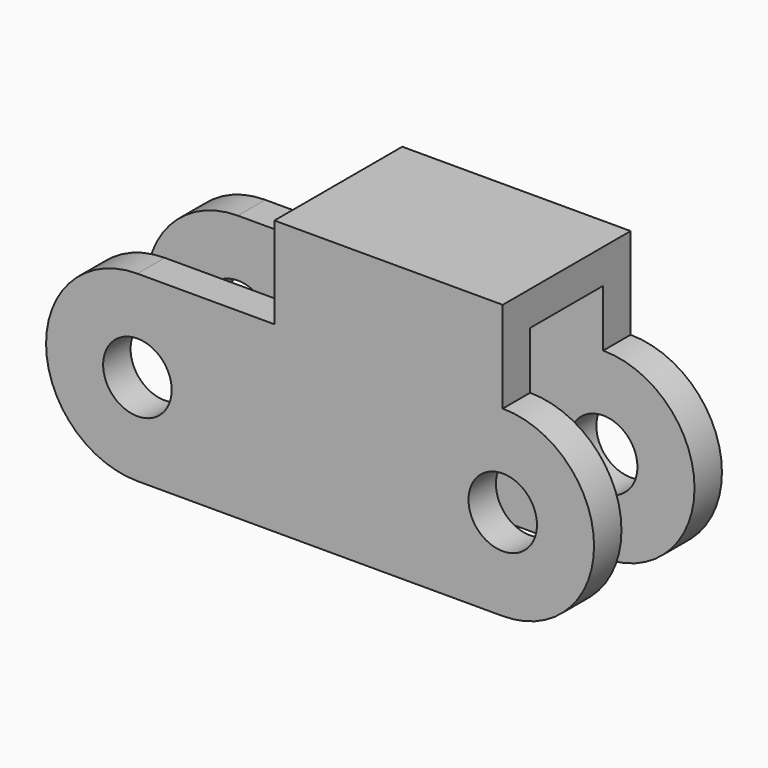
from build123d import *

# Parameters (mm, degrees)
F0_R     = 3
F0_W     = 20
F0_H     = 8
F1_DEPTH = 14
F2_T     = -3
F3_DEPTH = 14


with BuildPart() as f1:
    # F0 (on Front) → F1 (new body)
    with BuildSketch(Plane.XZ):
        with BuildLine():
            Line((-4, 8), (-16, 8))
            ThreePointArc((-16, 8), (-24, 0), (-16, -8))
            Line((-16, -8), (16, -8))
            ThreePointArc((16, -8), (24, 0), (16, 8))
            Line((16, 8), (-4, 8))
        make_face()
        with Locations((-16, 0)):
            Circle(F0_R, mode=Mode.SUBTRACT)
        with Locations((16, 0)):
            Circle(F0_R, mode=Mode.SUBTRACT)
        with Locations((6, 12)):
            Rectangle(F0_W, F0_H)
        with Locations((-16, 0)):
            Circle(F0_R)
        with Locations((16, 0)):
            Circle(F0_R)
    extrude(amount=F1_DEPTH)

    # F2
    f2_openings = [f1.faces().sort_by_distance(p)[0] for p in [
        (-4, -7, 12),
        (-10, -7, 8),
        (-24, -7, 0),
        (0, -7, -8),
        (24, -7, 0),
        (16, -7, 12),
    ]]
    offset(amount=F2_T, openings=f2_openings)

    # F0 (on Front) → F3 (cut)
    with BuildSketch(Plane.XZ):
        with Locations((16, 0)):
            Circle(F0_R)
        with Locations((-16, 0)):
            Circle(F0_R)
    extrude(amount=F3_DEPTH, mode=Mode.SUBTRACT)


solid = f1.part
